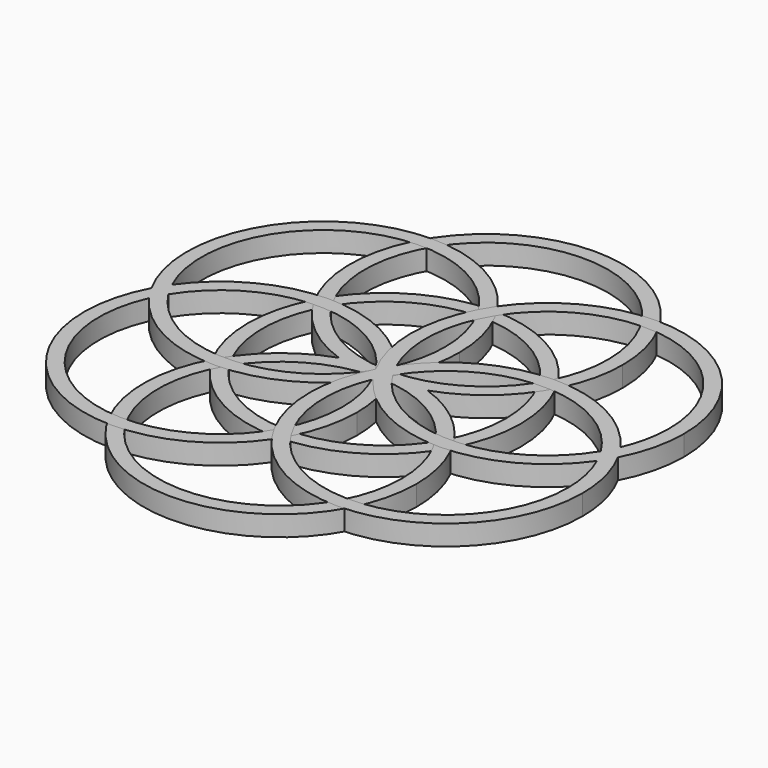
from build123d import *

# Parameters (mm, degrees)
F0_R     = 21.336
F0_R_2   = 19.05
F1_DEPTH = 3.175
F3_DEPTH = 3.175
F5_DEPTH = 3.175
F7_DEPTH = 3.175


with BuildPart() as f1:
    # F0 (on Top) → F1 (new body)
    with BuildSketch(Plane.XY):
        Circle(F0_R)
        Circle(F0_R_2, mode=Mode.SUBTRACT)
    extrude(amount=F1_DEPTH)


with BuildPart() as f3:
    # F2 (on Top) → F3 (new body)
    with BuildSketch(Plane.XY):
        with BuildLine():
            ThreePointArc((-0.7243629604, 0.9409253019), (-13.2118012702, 33.7012444831), (19.05, 19.9771486223))
            ThreePointArc((19.05, 19.9771486223), (13.7240958608, 6.7653473521), (0.7243629604, 0.9409253019))
            ThreePointArc((0.7243629604, 0.9409253019), (3.8685695365, 0.5995762982), (6.9277729052, -0.2028131858))
            ThreePointArc((6.9277729052, -0.2028131858), (17.3642716332, 7.5792872484), (21.336, 19.9771486223))
            ThreePointArc((21.336, 19.9771486223), (-12.3978613739, 37.3414202555), (-6.9277729052, -0.2028131858))
            ThreePointArc((-6.9277729052, -0.2028131858), (-3.8685695365, 0.5995762982), (-0.7243629604, 0.9409253019))
        make_face()
        with BuildLine():
            ThreePointArc((0.7243629604, 0.9409253019), (0, 0.9271486223), (-0.7243629604, 0.9409253019))
            ThreePointArc((-0.7243629604, 0.9409253019), (-3.8685695365, 0.5995762982), (-6.9277729052, -0.2028131858))
            ThreePointArc((-6.9277729052, -0.2028131858), (-3.8685695365, -1.0052026697), (-0.7243629604, -1.3465516734))
            ThreePointArc((-0.7243629604, -1.3465516734), (0, -1.3327749938), (0.7243629604, -1.3465516734))
            ThreePointArc((0.7243629604, -1.3465516734), (3.8685695365, -1.0052026697), (6.9277729052, -0.2028131858))
            ThreePointArc((6.9277729052, -0.2028131858), (3.8685695365, 0.5995762982), (0.7243629604, 0.9409253019))
        make_face()
        with BuildLine():
            ThreePointArc((-0.7243629604, -1.3465516734), (-3.8685695365, -1.0052026697), (-6.9277729052, -0.2028131858))
            ThreePointArc((-6.9277729052, -0.2028131858), (-12.3978613739, -37.747046627), (21.336, -20.3827749938))
            ThreePointArc((21.336, -20.3827749938), (17.3642716332, -7.9849136199), (6.9277729052, -0.2028131858))
            ThreePointArc((6.9277729052, -0.2028131858), (3.8685695365, -1.0052026697), (0.7243629604, -1.3465516734))
            ThreePointArc((0.7243629604, -1.3465516734), (13.7240958608, -7.1709737236), (19.05, -20.3827749938))
            ThreePointArc((19.05, -20.3827749938), (-13.2118012702, -34.1068708546), (-0.7243629604, -1.3465516734))
        make_face()
    extrude(amount=F3_DEPTH)


with BuildPart() as f5:
    # F4 (on Top) → F5 (new body)
    with BuildSketch(Plane.XY):
        with BuildLine():
            ThreePointArc((-34.9307937454, 2.1616098706), (-21.7103421779, 28.7418947055), (1.4206783354, 10.1341605186))
            ThreePointArc((1.4206783354, 10.1341605186), (1.0040282244, 6.1717405616), (-0.2276966689, 2.3826479237))
            ThreePointArc((-0.2276966689, 2.3826479237), (0.52586092, 1.2715491548), (1.20804735, 0.115257155))
            ThreePointArc((1.20804735, 0.115257155), (3.0725985519, 4.9712741793), (3.7066783354, 10.1341605186))
            ThreePointArc((3.7066783354, 10.1341605186), (-22.9239595032, 30.8027769735), (-36.3375385898, -0.1238858587))
            ThreePointArc((-36.3375385898, -0.1238858587), (-35.6701366939, 1.0410022147), (-34.9307937454, 2.1616098706))
        make_face()
        with BuildLine():
            ThreePointArc((-33.6923339453, -0.1070374811), (-34.3500840389, 1.0062579326), (-34.9307937454, 2.1616098706))
            ThreePointArc((-34.9307937454, 2.1616098706), (-35.6701366939, 1.0410022147), (-36.3375385898, -0.1238858587))
            ThreePointArc((-36.3375385898, -0.1238858587), (-35.6553521597, -1.2801778585), (-34.9017945709, -2.3912766274))
            ThreePointArc((-34.9017945709, -2.3912766274), (-34.3358491905, -1.2286211797), (-33.6923339453, -0.1070374811))
        make_face()
        with BuildLine():
            ThreePointArc((1.20804735, 0.115257155), (0.52586092, 1.2715491548), (-0.2276966689, 2.3826479237))
            ThreePointArc((-0.2276966689, 2.3826479237), (-0.7936420493, 1.219992476), (-1.4371572945, 0.0984087774))
            ThreePointArc((-1.4371572945, 0.0984087774), (-0.7794072008, -1.0148866363), (-0.1986974944, -2.1702385742))
            ThreePointArc((-0.1986974944, -2.1702385742), (0.5406454541, -1.0496309183), (1.20804735, 0.115257155))
        make_face()
        with BuildLine():
            ThreePointArc((-34.9017945709, -2.3912766274), (-35.6553521597, -1.2801778585), (-36.3375385898, -0.1238858587))
            ThreePointArc((-36.3375385898, -0.1238858587), (-22.6630559145, -30.8447094387), (3.8358304248, -10.1427892223))
            ThreePointArc((3.8358304248, -10.1427892223), (3.1684468796, -4.8481513837), (1.20804735, 0.115257155))
            ThreePointArc((1.20804735, 0.115257155), (0.5406454541, -1.0496309183), (-0.1986974944, -2.1702385742))
            ThreePointArc((-0.1986974944, -2.1702385742), (1.1075646117, -6.061768709), (1.5498304248, -10.1427892223))
            ThreePointArc((1.5498304248, -10.1427892223), (-21.4625895323, -28.7761391113), (-34.9017945709, -2.3912766274))
        make_face()
        with BuildLine():
            ThreePointArc((-0.2276966689, 2.3826479237), (-17.6360644272, 11.1927779975), (-34.9307937454, 2.1616098706))
            ThreePointArc((-34.9307937454, 2.1616098706), (-34.3500840389, 1.0062579326), (-33.6923339453, -0.1070374811))
            ThreePointArc((-33.6923339453, -0.1070374811), (-17.6215042645, 8.9068243668), (-1.4371572945, 0.0984087774))
            ThreePointArc((-1.4371572945, 0.0984087774), (-0.7936420493, 1.219992476), (-0.2276966689, 2.3826479237))
        make_face()
        with BuildLine():
            ThreePointArc((-1.4371572945, 0.0984087774), (-17.5079869753, -8.9154530704), (-33.6923339453, -0.1070374811))
            ThreePointArc((-33.6923339453, -0.1070374811), (-34.3358491905, -1.2286211797), (-34.9017945709, -2.3912766274))
            ThreePointArc((-34.9017945709, -2.3912766274), (-17.4934268126, -11.2014067011), (-0.1986974944, -2.1702385742))
            ThreePointArc((-0.1986974944, -2.1702385742), (-0.7794072008, -1.0148866363), (-1.4371572945, 0.0984087774))
        make_face()
    extrude(amount=F5_DEPTH)


with BuildPart() as f7:
    # F6 (on Top) → F7 (new body)
    with BuildSketch(Plane.XY):
        with BuildLine():
            ThreePointArc((-0.1309316487, 2.576553171), (13.2449427332, 29.0184454449), (36.2918635339, 10.3924656287))
            ThreePointArc((36.2918635339, 10.3924656287), (35.8932420461, 6.5157944288), (34.7140599022, 2.8013620154))
            ThreePointArc((34.7140599022, 2.8013620154), (35.4677000889, 1.6758108564), (36.14839941, 0.5047056617))
            ThreePointArc((36.14839941, 0.5047056617), (37.96159743, 5.3015400475), (38.5778635339, 10.3924656287))
            ThreePointArc((38.5778635339, 10.3924656287), (12.0173695265, 31.0789239618), (-1.5355183903, 0.2615809647))
            ThreePointArc((-1.5355183903, 0.2615809647), (-0.8699863043, 1.4413716178), (-0.1309316487, 2.576553171))
        make_face()
        with BuildLine():
            ThreePointArc((1.0983912169, 0.2785741149), (0.4443868272, 1.4065168034), (-0.1309316487, 2.576553171))
            ThreePointArc((-0.1309316487, 2.576553171), (-0.8699863043, 1.4413716178), (-1.5355183903, 0.2615809647))
            ThreePointArc((-1.5355183903, 0.2615809647), (-0.8548190692, -0.9095242299), (-0.1011788825, -2.035075389))
            ThreePointArc((-0.1011788825, -2.035075389), (0.4589949217, -0.857713185), (1.0983912169, 0.2785741149))
        make_face()
        with BuildLine():
            ThreePointArc((36.14839941, 0.5047056617), (35.4677000889, 1.6758108564), (34.7140599022, 2.8013620154))
            ThreePointArc((34.7140599022, 2.8013620154), (34.153886098, 1.6239998114), (33.5144898028, 0.4877125115))
            ThreePointArc((33.5144898028, 0.4877125115), (34.1684941925, -0.640230177), (34.7438126684, -1.8102665446))
            ThreePointArc((34.7438126684, -1.8102665446), (35.482867324, -0.6750849914), (36.14839941, 0.5047056617))
        make_face()
        with BuildLine():
            ThreePointArc((-0.1011788825, -2.035075389), (-0.8548190692, -0.9095242299), (-1.5355183903, 0.2615809647))
            ThreePointArc((-1.5355183903, 0.2615809647), (12.2800919047, -30.3459128984), (38.7070174859, -9.6261790022))
            ThreePointArc((38.7070174859, -9.6261790022), (38.057475819, -4.4016849948), (36.14839941, 0.5047056617))
            ThreePointArc((36.14839941, 0.5047056617), (35.482867324, -0.6750849914), (34.7438126684, -1.8102665446))
            ThreePointArc((34.7438126684, -1.8102665446), (35.9969973021, -5.6292582016), (36.4210174859, -9.6261790022))
            ThreePointArc((36.4210174859, -9.6261790022), (13.494346286, -28.2775575145), (-0.1011788825, -2.035075389))
        make_face()
        with BuildLine():
            ThreePointArc((34.7140599022, 2.8013620154), (17.2333672392, 11.7093769645), (-0.1309316487, 2.576553171))
            ThreePointArc((-0.1309316487, 2.576553171), (0.4443868272, 1.4065168034), (1.0983912169, 0.2785741149))
            ThreePointArc((1.0983912169, 0.2785741149), (17.2481154799, 9.4234245395), (33.5144898028, 0.4877125115))
            ThreePointArc((33.5144898028, 0.4877125115), (34.153886098, 1.6239998114), (34.7140599022, 2.8013620154))
        make_face()
        with BuildLine():
            ThreePointArc((33.5144898028, 0.4877125115), (17.3647655398, -8.657137913), (1.0983912169, 0.2785741149))
            ThreePointArc((1.0983912169, 0.2785741149), (0.4589949217, -0.857713185), (-0.1011788825, -2.035075389))
            ThreePointArc((-0.1011788825, -2.035075389), (17.3795137805, -10.943090338), (34.7438126684, -1.8102665446))
            ThreePointArc((34.7438126684, -1.8102665446), (34.1684941925, -0.640230177), (33.5144898028, 0.4877125115))
        make_face()
    extrude(amount=F7_DEPTH)


solid = Compound([f1.part, f3.part, f5.part, f7.part])
